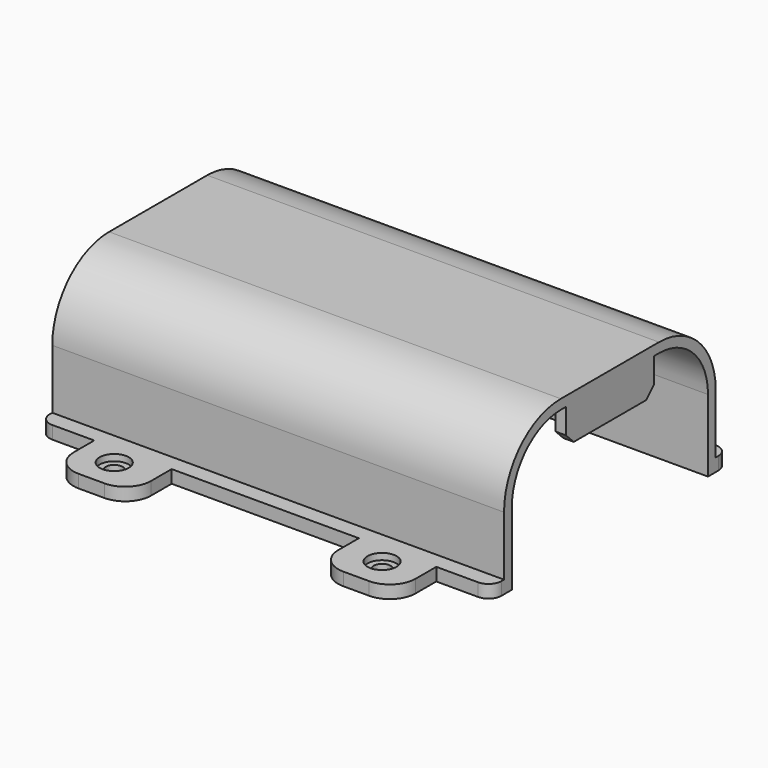
from build123d import *

# Parameters (mm, degrees)
PAD_DEPTH           = 70
POCKET_DEPTH        = 2.001
SKETCH002_R         = 1.3
POCKET001_DEPTH     = 2.001
SKETCH003_R         = 2.25
POCKET002_DEPTH     = 1
PAD001_DEPTH        = 1.6
LINEARPATTERN_COUNT = 2
LINEARPATTERN_PITCH = 68.4
FILLET_R            = 2
FILLET001_R         = 4
FILLET002_R         = 4


with BuildPart() as part:
    # Sketch → Pad (new body)
    with BuildSketch(Plane.YZ):
        with BuildLine():
            ThreePointArc((19, 11.2), (16.217514, 17.917514), (9.5, 20.7))
            Line((-9.5, 20.7), (9.5, 20.7))
            ThreePointArc((-9.5, 20.7), (-16.217514, 17.917514), (-19, 11.2))
            Line((-19, 11.2), (-19, 0))
            Line((-19, 0), (-31, 0))
            Line((-31, 0), (-31, 2))
            Line((-31, 2), (-20.5, 2))
            Line((-20.5, 2), (-20.5, 11.2))
            ThreePointArc((-9.5, 22.2), (-17.278175, 18.978175), (-20.5, 11.2))
            Line((-9.5, 22.2), (9.5, 22.2))
            ThreePointArc((20.5, 11.2), (17.278175, 18.978175), (9.5, 22.2))
            Line((20.5, 2), (20.5, 11.2))
            Line((31, 2), (20.5, 2))
            Line((31, 0), (31, 2))
            Line((19, 0), (31, 0))
            Line((19, 11.2), (19, 0))
        make_face()
    extrude(amount=PAD_DEPTH)

    # Sketch001 (on Face13 of Pad) → Pocket (cut, through all)
    with BuildSketch(Plane(origin=(0, 0, 2), x_dir=(0, -1, 0), z_dir=(0, 0, 1))):
        Polygon((23, 73), (23, 61.5), (35, 61.5), (35, 49.5), (23, 49.5), (23, 20.5), (35, 20.5), (35, 8.5), (23, 8.5), (23, -3), (46, -3), (46, 73), align=None)
        Polygon((-46, 73), (-23, 73), (-23, 61.5), (-35, 61.5), (-35, 49.5), (-23, 49.5), (-23, 20.5), (-35, 20.5), (-35, 8.5), (-23, 8.5), (-23, -3), (-46, -3), align=None)
    extrude(amount=-POCKET_DEPTH, mode=Mode.SUBTRACT)

    # Sketch002 (on Face17 of Pocket) → Pocket001 (cut, through all)
    with BuildSketch(Plane(origin=(0, 0, 2), x_dir=(0, -1, 0), z_dir=(0, 0, 1))):
        with Locations((26, 14)):
            Circle(SKETCH002_R)
        with Locations((-26, 14)):
            Circle(SKETCH002_R)
        with Locations((26, 55.5)):
            Circle(SKETCH002_R)
        with Locations((-26, 55.5)):
            Circle(SKETCH002_R)
    extrude(amount=-POCKET001_DEPTH, mode=Mode.SUBTRACT)

    # Sketch003 (on Face17 of Pocket001) → Pocket002 (cut)
    with BuildSketch(Plane(origin=(0, 0, 2), x_dir=(0, -1, 0), z_dir=(0, 0, 1))):
        with Locations((26, 55.5)):
            Circle(SKETCH003_R)
        with Locations((26, 14)):
            Circle(SKETCH003_R)
        with Locations((-26, 55.5)):
            Circle(SKETCH003_R)
        with Locations((-26, 14)):
            Circle(SKETCH003_R)
    extrude(amount=-POCKET002_DEPTH, mode=Mode.SUBTRACT)

    # Sketch004 → Pad001 (join)
    with BuildSketch(Plane.YZ):
        Polygon((-8.5, 21.3), (8.5, 21.3), (8.5, 16.8), (7, 15.3), (-7, 15.3), (-8.5, 16.8), align=None)
    pad001 = extrude(amount=PAD001_DEPTH)

    # LinearPattern: Pad001 ×2
    with Locations(*[(i * LINEARPATTERN_PITCH, 0, 0) for i in range(1, LINEARPATTERN_COUNT)]):
        add(pad001)

    # Fillet
    fillet_edges = [part.edges().sort_by_distance(p)[0] for p in [
        (70, 23, 1),
        (70, -23, 1),
        (0, -23, 1),
        (0, 23, 1),
    ]]
    fillet(fillet_edges, radius=FILLET_R)

    # Fillet001
    fillet001_edges = [part.edges().sort_by_distance(p)[0] for p in [
        (8.5, -31, 1),
        (20.5, -31, 1),
        (49.5, -31, 1),
        (61.5, -31, 1),
    ]]
    fillet(fillet001_edges, radius=FILLET001_R)

    # Fillet002
    fillet002_edges = [part.edges().sort_by_distance(p)[0] for p in [
        (61.5, 31, 1),
        (49.5, 31, 1),
        (20.5, 31, 1),
        (8.5, 31, 1),
    ]]
    fillet(fillet002_edges, radius=FILLET002_R)


solid = part.part
